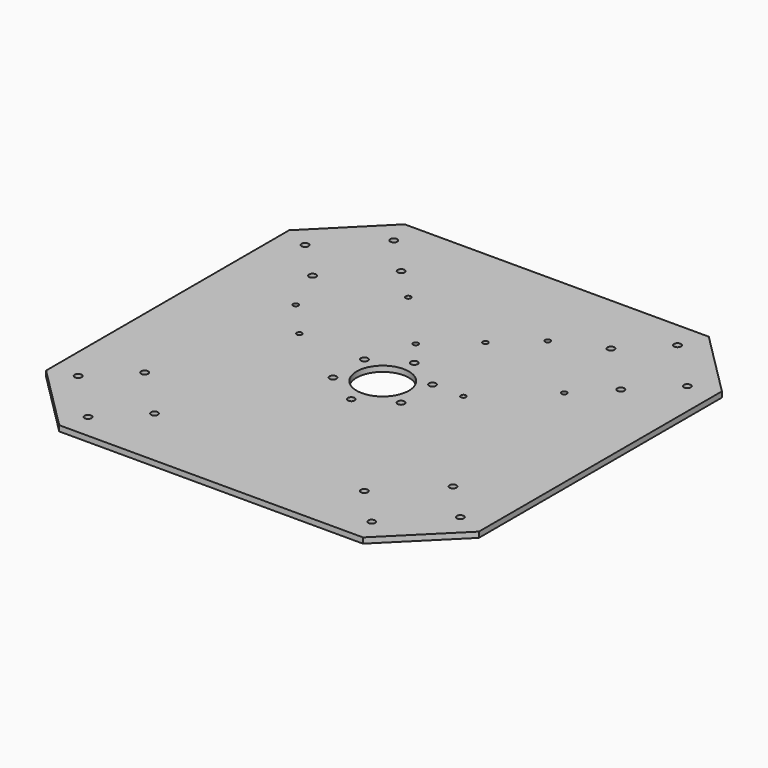
from build123d import *

# Parameters (mm, degrees)
F0_R     = 2
F0_R_2   = 15
F0_R_3   = 1.5
F1_DEPTH = 3.175


with BuildPart() as f1:
    # F0 (on Top) → F1 (new body)
    with BuildSketch(Plane.XY):
        Polygon((87.240498, 125), (-87.426407, 125), (-124.284833, 88.141574), (-124.284833, -86.339422), (-86.525331, -124.098924), (87.955665, -124.098924), (125, -87.240498), (125, 87.240498), align=None)
        with Locations((-81.464466, -109.748737)):
            Circle(F0_R, mode=Mode.SUBTRACT)
        with Locations((-109.748737, -81.464466)):
            Circle(F0_R, mode=Mode.SUBTRACT)
        with Locations((-60.251263, -88.535534)):
            Circle(F0_R, mode=Mode.SUBTRACT)
        with Locations((-88.535534, -60.251263)):
            Circle(F0_R, mode=Mode.SUBTRACT)
        with Locations((0, -22.581)):
            Circle(F0_R, mode=Mode.SUBTRACT)
        with Locations((-19.55572, -11.2905)):
            Circle(F0_R, mode=Mode.SUBTRACT)
        Circle(F0_R_2, mode=Mode.SUBTRACT)
        with Locations((60.251263, -88.535534)):
            Circle(F0_R, mode=Mode.SUBTRACT)
        with Locations((81.464466, -109.748737)):
            Circle(F0_R, mode=Mode.SUBTRACT)
        with Locations((109.748737, -81.464466)):
            Circle(F0_R, mode=Mode.SUBTRACT)
        with Locations((19.55572, -11.2905)):
            Circle(F0_R, mode=Mode.SUBTRACT)
        with Locations((88.535534, -60.251263)):
            Circle(F0_R, mode=Mode.SUBTRACT)
        with Locations((-76.69242, 33.419801)):
            Circle(F0_R_3, mode=Mode.SUBTRACT)
        with Locations((-88.535534, 60.251263)):
            Circle(F0_R, mode=Mode.SUBTRACT)
        with Locations((-57.982066, 12.588992)):
            Circle(F0_R_3, mode=Mode.SUBTRACT)
        with Locations((-19.55572, 11.2905)):
            Circle(F0_R, mode=Mode.SUBTRACT)
        with Locations((0, 22.581)):
            Circle(F0_R, mode=Mode.SUBTRACT)
        with Locations((-11.058596, 37.477503)):
            Circle(F0_R_3, mode=Mode.SUBTRACT)
        with Locations((-109.748737, 81.464466)):
            Circle(F0_R, mode=Mode.SUBTRACT)
        with Locations((-81.464466, 109.748737)):
            Circle(F0_R, mode=Mode.SUBTRACT)
        with Locations((-41.879758, 70.73747)):
            Circle(F0_R_3, mode=Mode.SUBTRACT)
        with Locations((-60.251263, 88.535534)):
            Circle(F0_R, mode=Mode.SUBTRACT)
        with Locations((19.55572, 11.2905)):
            Circle(F0_R, mode=Mode.SUBTRACT)
        with Locations((37.477503, 11.058596)):
            Circle(F0_R_3, mode=Mode.SUBTRACT)
        with Locations((12.588992, 57.982066)):
            Circle(F0_R_3, mode=Mode.SUBTRACT)
        with Locations((70.73747, 41.879758)):
            Circle(F0_R_3, mode=Mode.SUBTRACT)
        with Locations((88.535534, 60.251263)):
            Circle(F0_R, mode=Mode.SUBTRACT)
        with Locations((33.419801, 76.69242)):
            Circle(F0_R_3, mode=Mode.SUBTRACT)
        with Locations((60.251263, 88.535534)):
            Circle(F0_R, mode=Mode.SUBTRACT)
        with Locations((109.748737, 81.464466)):
            Circle(F0_R, mode=Mode.SUBTRACT)
        with Locations((81.464466, 109.748737)):
            Circle(F0_R, mode=Mode.SUBTRACT)
    extrude(amount=F1_DEPTH)


solid = f1.part
